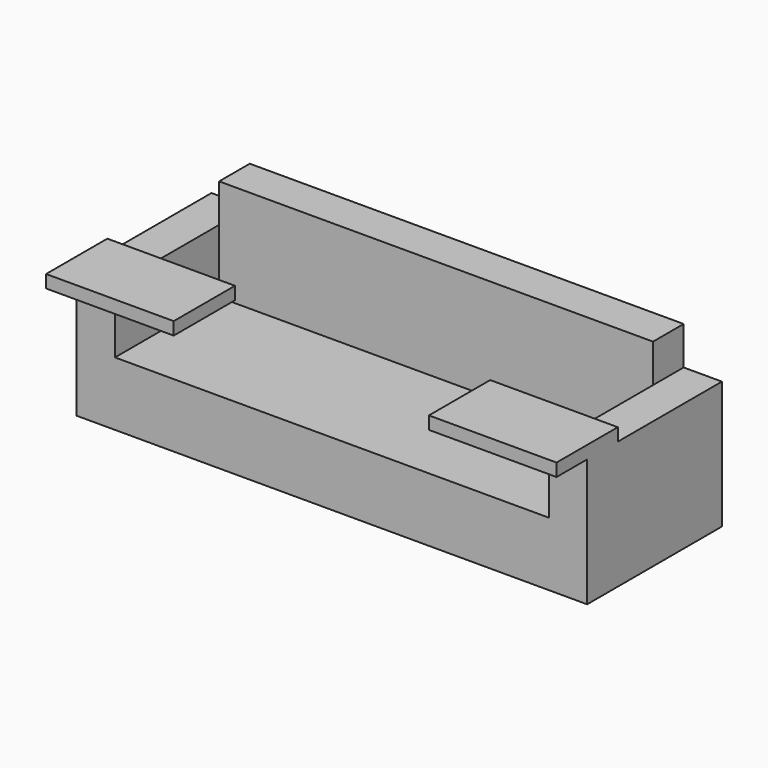
from build123d import *

# Parameters (mm, degrees)
F1_DEPTH = 16.764
F3_DEPTH = 6.35
F4_W     = 43.18
F4_H     = 3.81
F5_DEPTH = 3.81
F7_DEPTH = 1.27


with BuildPart() as f1:
    # F0 (on Front) → F1 (new body)
    with BuildSketch(Plane.XZ):
        Polygon((-25.4, -6.35), (0, -6.35), (25.4, -6.35), (25.4, 0), (-25.4, 0), align=None)
    extrude(amount=F1_DEPTH)

    # F2 (on face) → F3 (join)
    with BuildSketch(Plane.XY):
        Polygon((-25.4, 0), (-25.4, -16.764), (-21.59, -16.764), (-21.59, -3.81), (0, -3.81), (21.59, -3.81), (21.59, -16.764), (25.4, -16.764), (25.4, 0), align=None)
    extrude(amount=F3_DEPTH)

    # F4 (on face) → F5 (join)
    with BuildSketch(Plane.XY.offset(6.35)):
        with Locations((0, -1.905)):
            Rectangle(F4_W, F4_H)
    extrude(amount=F5_DEPTH)

    # F6 (on face) → F7 (join)
    with BuildSketch(Plane.XY.offset(6.35)):
        Polygon((-25.4, -12.954), (-25.4, -16.764), (-25.4, -20.574), (-12.7, -20.574), (-12.7, -12.954), align=None)
    extrude(amount=F7_DEPTH)

    # F8: F1 across plane


with BuildPart() as f1_1:
    add(f1.part)
    add(f1.part.mirror(Plane.YZ))


solid = f1_1.part
